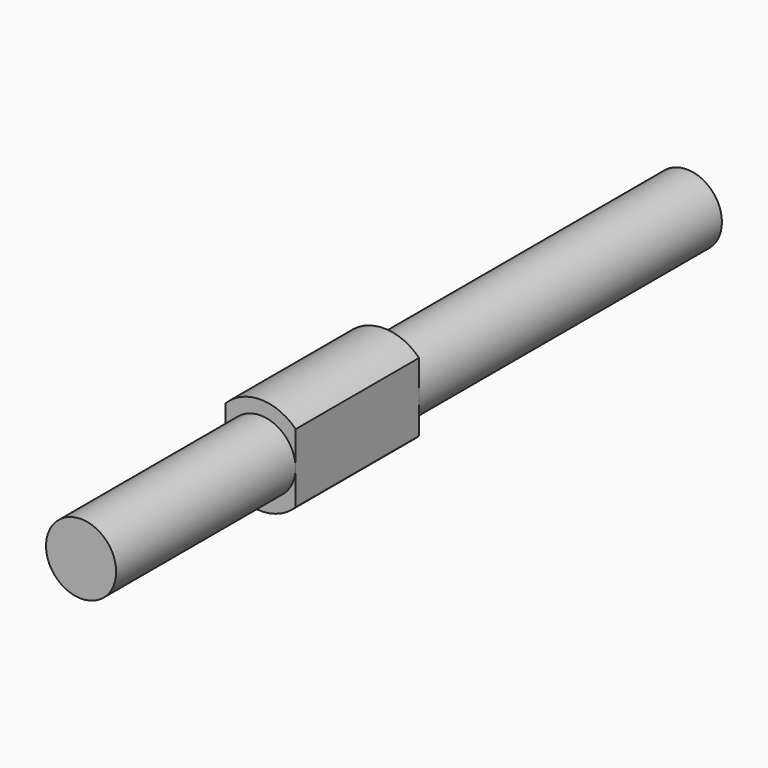
from build123d import *

# Parameters (mm, degrees)
F1_DEPTH = 5.5
F2_R     = 1.25
F3_DEPTH = 13.5


with BuildPart() as f1:
    # F0 (on Front) → F1 (new body)
    with BuildSketch(Plane.XZ):
        with BuildLine():
            Line((-1.25, 1.2247448714), (-1.25, -1.2247448714))
            ThreePointArc((-1.25, -1.2247448714), (0, -1.75), (1.25, -1.2247448714))
            Line((1.25, -1.2247448714), (1.25, 1.2247448714))
            ThreePointArc((1.25, 1.2247448714), (0, 1.75), (-1.25, 1.2247448714))
        make_face()
    extrude(amount=F1_DEPTH)

    # F2 (on Front) → F3 (join, symmetric)
    with BuildSketch(Plane.XZ):
        Circle(F2_R)
    extrude(amount=F3_DEPTH, both=True)


solid = f1.part
